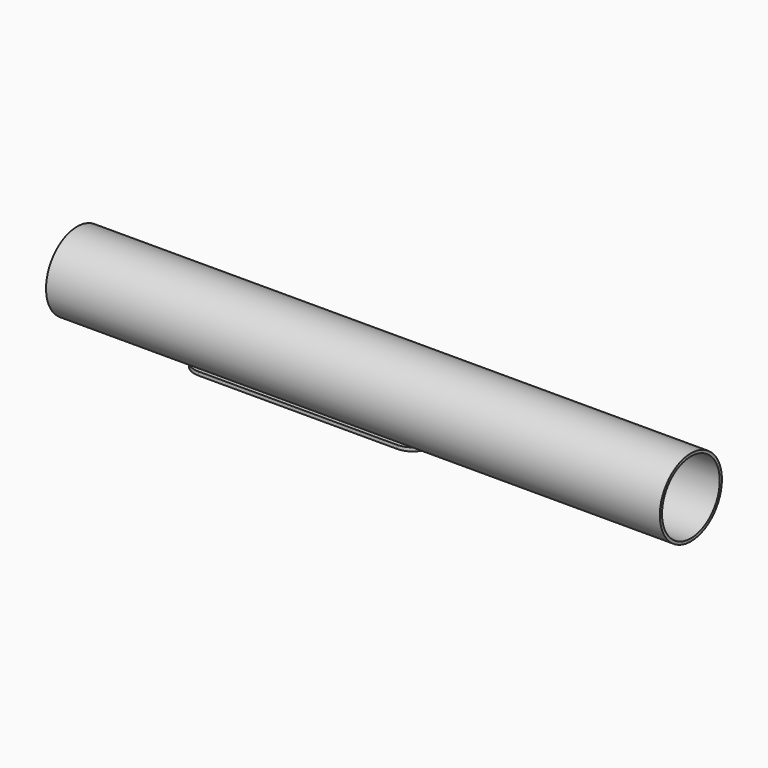
from build123d import *

# Parameters (mm, degrees)
SKETCH005_R     = 10.75
SKETCH005_R_2   = 10
PAD001_DEPTH    = 170
POCKET013_DEPTH = 5
PAD009_DEPTH    = 1


with BuildPart() as part:
    # Sketch005 → Pad001 (new body)
    with BuildSketch(Plane.YZ):
        Circle(SKETCH005_R)
        Circle(SKETCH005_R_2, mode=Mode.SUBTRACT)
    extrude(amount=PAD001_DEPTH)

    # Sketch021 (on DatumPlane) → Pocket013 (cut)
    with BuildSketch(Plane.YX.offset(11)):
        with BuildLine():
            ThreePointArc((3.5, 93), (0, 96.5), (-3.5, 93))
            Line((-3.5, 93), (-3.5, 38))
            ThreePointArc((-3.5, 38), (0, 34.5), (3.5, 38))
            Line((3.5, 38), (3.5, 93))
        make_face()
    extrude(amount=-POCKET013_DEPTH, mode=Mode.SUBTRACT)

    # Sketch026 (on DatumPlane) → Pad009 (join)
    with BuildSketch(Plane.YX.offset(11)):
        with BuildLine():
            ThreePointArc((5.5, 93), (0, 98.5), (-5.5, 93))
            Line((-5.5, 93), (-5.5, 38))
            ThreePointArc((-5.5, 38), (0, 32.5), (5.5, 38))
            Line((5.5, 38), (5.5, 93))
        make_face()
        with BuildLine():
            ThreePointArc((-2.5, 38), (0, 35.5), (2.5, 38))
            Line((2.5, 38), (2.5, 93))
            ThreePointArc((2.5, 93), (0, 95.5), (-2.5, 93))
            Line((-2.5, 93), (-2.5, 38))
        make_face(mode=Mode.SUBTRACT)
    extrude(amount=-PAD009_DEPTH)


solid = part.part
